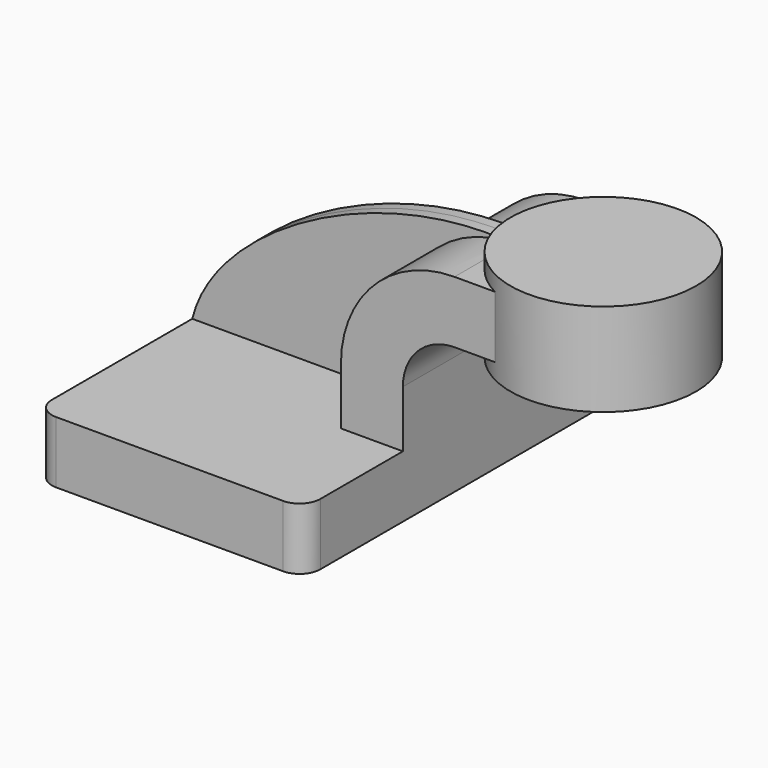
from build123d import *

# Parameters (mm, degrees)
F1_DEPTH = 63.5
F2_DEPTH = 3.175
F0_W     = 22.2610938409
F0_H     = 19.05
F3_DEPTH = 25.4
F5_DEPTH = 25.4
F6_R     = 6.35


with BuildPart() as f1:
    # F0 (on Front) → F1 (new body, symmetric)
    with BuildSketch(Plane.XZ):
        Polygon((-41.275, 9.525), (-41.275, -9.525), (41.275, -9.525), (41.275, 9.525), (22.225, 9.525), align=None)
    extrude(amount=F1_DEPTH, both=True)

    # F0 (on Front) → F2 (join, symmetric)
    with BuildSketch(Plane.XZ):
        with BuildLine():
            add(Edge.make_bspline(
                [(-41.275, 9.525), (-34.2779420316, 38.2648594677), (15.5508974567, 65.6356289983), (57.15, 61.9252)],
                knots=[0, 0, 0, 0, 111.5045361635, 111.5045361635, 111.5045361635, 111.5045361635], degree=3))
            Line((-41.275, 9.525), (22.225, 9.525))
            Line((22.225, 9.525), (22.225, 27.0002))
            ThreePointArc((22.225, 27.0002), (32.4542956671, 51.6959043329), (57.15, 61.9252))
        make_face()
    extrude(amount=F2_DEPTH, both=True)

    # F0 (on Front) → F3 (join, symmetric)
    with BuildSketch(Plane.XZ):
        with BuildLine():
            Line((22.225, 9.525), (41.275, 9.525))
            Line((41.275, 9.525), (41.275, 27.0002))
            ThreePointArc((41.275, 27.0002), (45.9246798487, 38.2255201513), (57.15, 42.8752))
            Line((57.15, 42.8752), (60.325, 42.8752))
            Line((60.325, 42.8752), (60.325, 61.9252))
            Line((60.325, 61.9252), (57.15, 61.9252))
            ThreePointArc((57.15, 61.9252), (32.4542956671, 51.6959043329), (22.225, 27.0002))
            Line((22.225, 27.0002), (22.225, 9.525))
        make_face()
        with Locations((71.4555469204, 52.4002)):
            Rectangle(F0_W, F0_H)
    extrude(amount=F3_DEPTH, both=True)

    # F0 (on Front) → F4 (revolve)
    with BuildSketch(Plane.XZ):
        Polygon((82.5860938409, 66.675), (82.5860938409, 61.9252), (82.5860938409, 42.8752), (82.5860938409, 38.1), (111.125, 38.1), (111.125, 66.675), align=None)
    revolve(axis=Axis((82.5860938409, 0, 52.3875), (0, 0, -1)))

    # F0 (on Front) → F5 (join, symmetric)
    with BuildSketch(Plane.XZ):
        with Locations((71.4555469204, 52.4002)):
            Rectangle(F0_W, F0_H)
    extrude(amount=F5_DEPTH, both=True)

    # F6
    f6_edges = [f1.edges().sort_by_distance(p)[0] for p in [
        (41.275, -63.5, 0),
        (-41.275, -63.5, 0),
        (-41.275, 63.5, 0),
        (41.275, 63.5, 0),
    ]]
    fillet(f6_edges, radius=F6_R)


solid = f1.part
